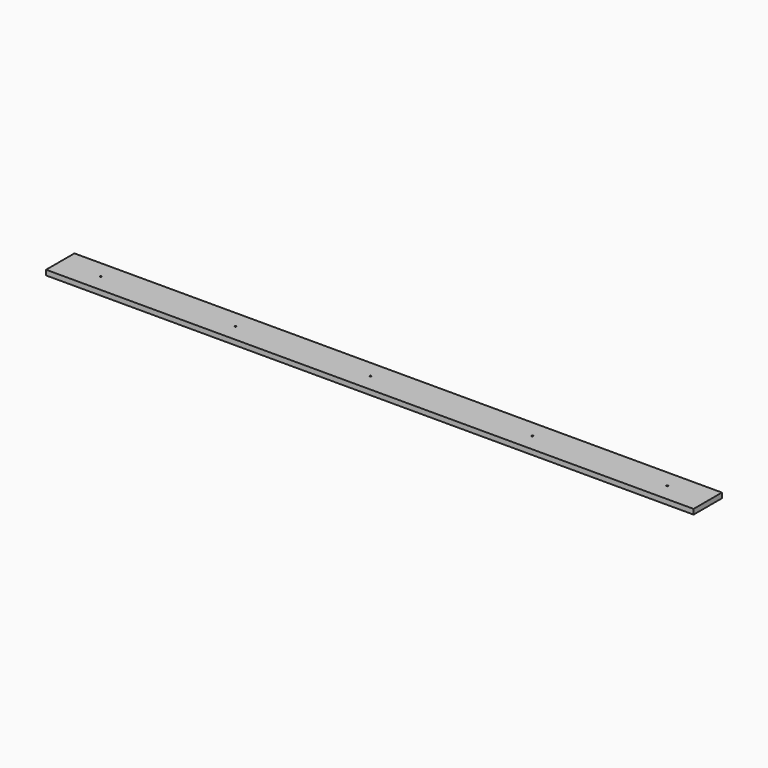
from build123d import *

# Parameters (mm, degrees)
F0_W     = 266.7
F0_H     = 38.1
F1_DEPTH = 4876.8
F2_R     = 6.35
F3_DEPTH = 38.1


with BuildPart() as f1:
    # F0 (on Right) → F1 (new body)
    with BuildSketch(Plane.YZ):
        with Locations((133.35, 19.05)):
            Rectangle(F0_W, F0_H)
    extrude(amount=F1_DEPTH)

    # F2 (on face) → F3 (cut, through all)
    with BuildSketch(Plane.XY.offset(38.1)):
        with Locations((304.8, 133.35)):
            Circle(F2_R)
        with Locations((2336.8, 133.35)):
            Circle(F2_R)
        with Locations((1320.8, 133.35)):
            Circle(F2_R)
        with Locations((3556, 133.35)):
            Circle(F2_R)
        with Locations((4572, 133.35)):
            Circle(F2_R)
    extrude(amount=-F3_DEPTH, mode=Mode.SUBTRACT)


solid = f1.part
